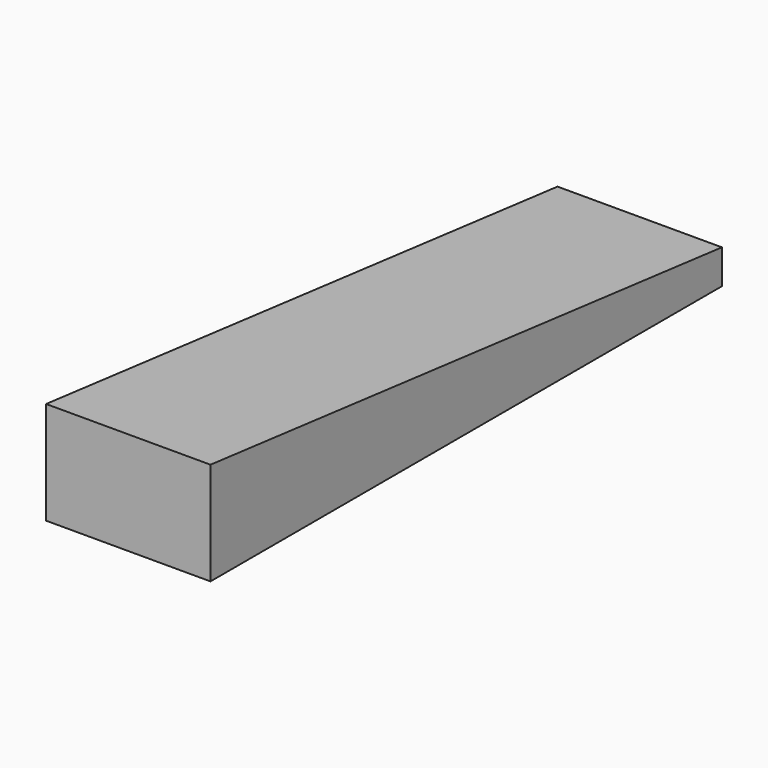
from build123d import *

# Parameters (mm, degrees)
F1_DEPTH  = 9.144
F1_FACE_W = 9.144
F1_FACE_H = 35.56
F2_DEPTH  = 1.905


with BuildPart() as f1:
    # F0 (on Right) → F1 (new body)
    with BuildSketch(Plane.YZ):
        Polygon((-35.56, 0), (0, 0), (-35.56, 3.81), align=None)
    extrude(amount=F1_DEPTH)

    # F1_face (on face) → F2 (join)
    with BuildSketch(Plane(origin=(4.572, -17.78, 0), x_dir=(1, 0, 0), z_dir=(0, 0, -1))):
        Rectangle(F1_FACE_W, F1_FACE_H)
    extrude(amount=F2_DEPTH)


solid = f1.part
